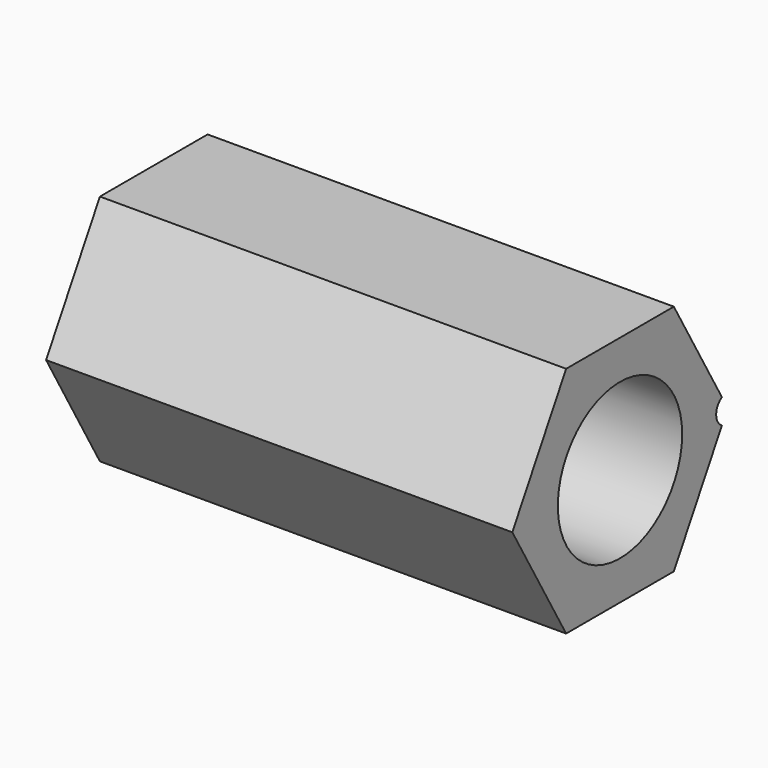
from build123d import *

# Parameters (mm, degrees)
F0_R     = 6.35
F1_DEPTH = 38.1


with BuildPart() as f1:
    # F0 (on Right) → F1 (new body)
    with BuildSketch(Plane.YZ):
        with BuildLine():
            Line((-5.499261, 3.888647), (5.499261, 3.888647))
            Line((5.499261, 3.888647), (10.411803, 12.397418))
            ThreePointArc((10.411803, 12.397418), (9.825083, 13.413647), (10.411803, 14.429875))
            Line((10.411803, 14.429875), (5.499261, 22.938647))
            Line((5.499261, 22.938647), (-5.499261, 22.938647))
            Line((-5.499261, 22.938647), (-10.998523, 13.413647))
            Line((-10.998523, 13.413647), (-5.499261, 3.888647))
        make_face()
        with Locations((0, 13.413647)):
            Circle(F0_R, mode=Mode.SUBTRACT)
    extrude(amount=F1_DEPTH)


solid = f1.part
